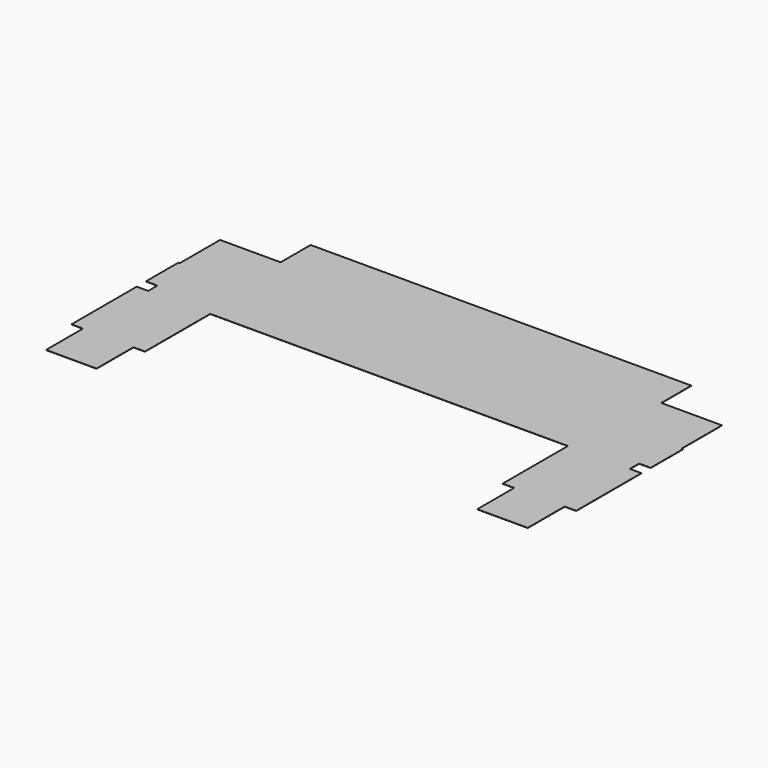
from build123d import *

# Parameters (mm, degrees)
F0_W     = 12.7
F0_H     = 89.7632419945
F1_DEPTH = 0.254


with BuildPart() as f1:
    # F0 (on Top) → F1 (new body)
    with BuildSketch(Plane.XY):
        Polygon((12.7, -146.9132419945), (12.7, -57.15), (209.55, -57.15), (406.4, -57.15), (406.4, -146.9132419945), (419.1, -146.9132419945), (419.1, -185.0132419945), (419.1, -197.7132419945), (474.6625, -197.7132419945), (474.6625, -185.0132419945), (474.6625, -146.9132419945), (487.3625, -146.9132419945), (487.3625, -57.15), (474.6625, -57.15), (474.6625, -44.45), (487.3625, -44.45), (487.3625, 0), (485.775, 0), (485.775, 55.5625), (473.075, 55.5625), (419.1, 55.5625), (419.1, 84.1375), (419.1, 96.8375), (209.55, 96.8375), (0, 96.8375), (0, 84.1375), (0, 55.5625), (-53.975, 55.5625), (-66.675, 55.5625), (-66.675, 0), (-68.2625, 0), (-68.2625, -44.45), (-55.5625, -44.45), (-55.5625, -57.15), (-55.5625, -146.9132419945), (-55.5625, -185.0132419945), (-55.5625, -197.7132419945), (0, -197.7132419945), (0, -185.0132419945), (0, -146.9132419945), align=None)
        with Locations((-61.9125, -102.0316209972)):
            Rectangle(F0_W, F0_H)
    extrude(amount=-F1_DEPTH)


solid = f1.part
